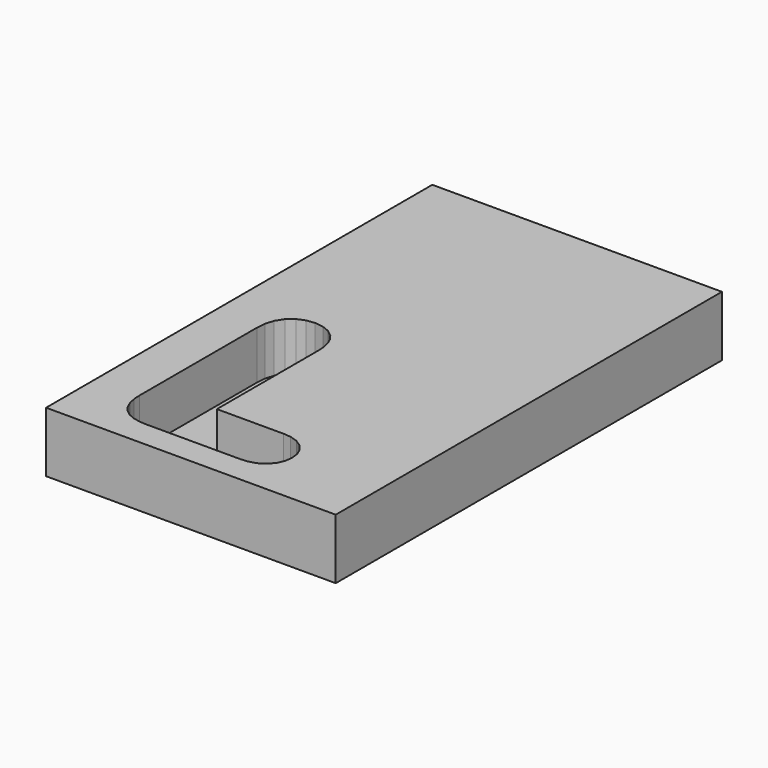
from build123d import *

# Parameters (mm, degrees)
F0_W     = 76.2
F0_H     = 127
F1_DEPTH = 15.875
F3_DEPTH = 12.7


with BuildPart() as f1:
    # F0 (on Top) → F1 (new body)
    with BuildSketch(Plane.XY):
        with Locations((38.1, 63.5)):
            Rectangle(F0_W, F0_H)
    extrude(amount=-F1_DEPTH)

    # F2 (on Top) → F3 (cut)
    with BuildSketch(Plane.XY):
        Polygon((19.635512, 63.968594), (17.445921, 63.702489), (15.421818, 62.846528), (13.700697, 61.402839), (12.452511, 59.459183), (11.777834, 57.207897), (11.588452, 54.890583), (11.588452, 16.20909), (11.697528, 14.372392), (12.07511, 12.566942), (12.78693, 10.880418), (13.896829, 9.397999), (15.374791, 8.269422), (17.071486, 7.544324), (18.889366, 7.161182), (20.740838, 7.050738), (45.373463, 7.050738), (47.343411, 7.213946), (49.311864, 7.806042), (51.042714, 8.904664), (52.35688, 10.431265), (53.147545, 12.245132), (53.394418, 14.209474), (53.143307, 16.159856), (52.351868, 17.962965), (51.054046, 19.49512), (49.333091, 20.629918), (47.35431, 21.254429), (45.380519, 21.427144), (27.793658, 21.427144), (27.793658, 54.85403), (27.686095, 56.623331), (27.315461, 58.378531), (26.6285, 60.021852), (25.569231, 61.492133), (23.868237, 62.873322), (21.836636, 63.707987), align=None)
    extrude(amount=-F3_DEPTH, mode=Mode.SUBTRACT)


solid = f1.part
